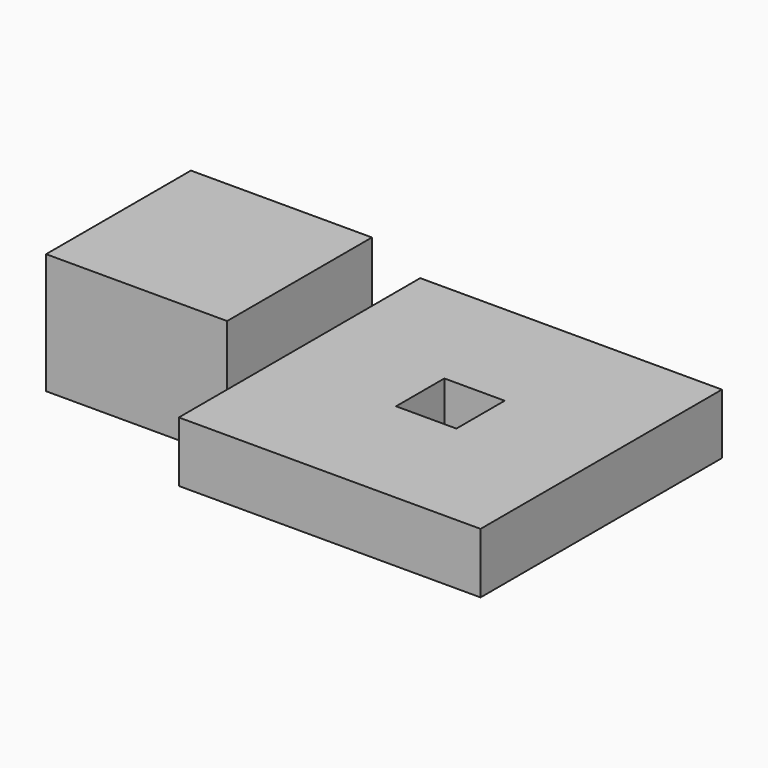
from build123d import *

# Parameters (mm, degrees)
BOX002_W     = 5
BOX002_H     = 5
BOX002_DEPTH = 10
BOX001_W     = 25
BOX001_H     = 25
BOX001_DEPTH = 5
BOX_W        = 15
BOX_H        = 15
BOX_DEPTH    = 10


with BuildPart() as cube002:
    # Box002 → Box002 (new body)
    with BuildSketch(Plane(origin=(25, 10, 0), x_dir=(1, 0, 0), z_dir=(0, 0, 1))):
        with Locations((2.5, 2.5)):
            Rectangle(BOX002_W, BOX002_H)
    extrude(amount=BOX002_DEPTH)


with BuildPart() as cut:
    # Box001 → Box001 (new body)
    with BuildSketch(Plane(origin=(15, 0, 0), x_dir=(1, 0, 0), z_dir=(0, 0, 1))):
        with Locations((12.5, 12.5)):
            Rectangle(BOX001_W, BOX001_H)
    extrude(amount=BOX001_DEPTH)

    # Cut: cut Cube002
    add(cube002.part, mode=Mode.SUBTRACT)


with BuildPart() as fusion:
    # Box → Box (new body)
    with BuildSketch(Plane(origin=(0, 5, 0), x_dir=(1, 0, 0), z_dir=(0, 0, 1))):
        with Locations((7.5, 7.5)):
            Rectangle(BOX_W, BOX_H)
    extrude(amount=BOX_DEPTH)

    # Fusion: union Cut
    add(cut.part)


solid = fusion.part
